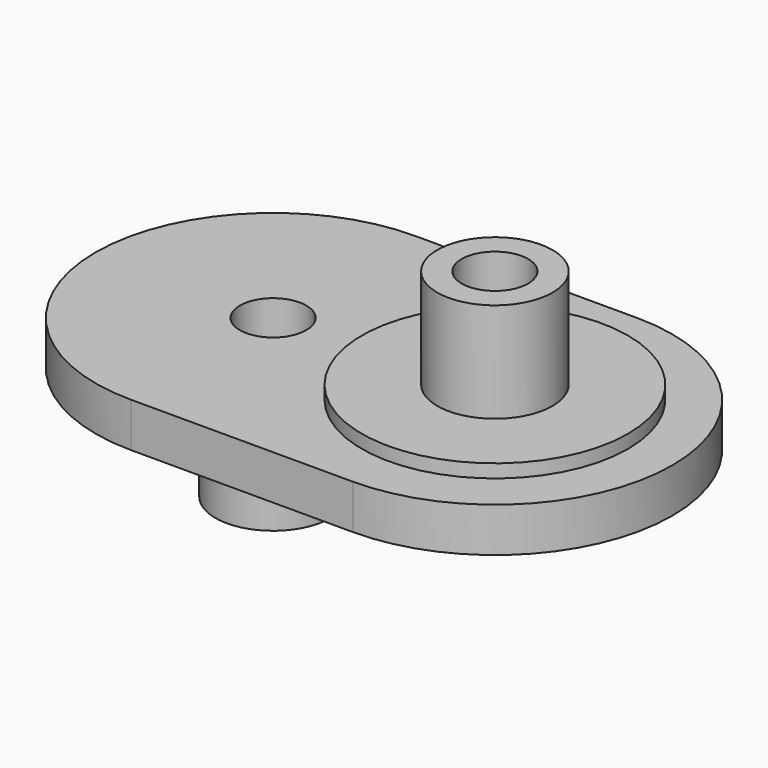
from build123d import *

# Parameters (mm, degrees)
CYLINDER009_R     = 1.5
CYLINDER009_DEPTH = 7.1
CYLINDER007_R     = 1.5
CYLINDER007_DEPTH = 7.1
CYLINDER006_R     = 6
CYLINDER006_DEPTH = 2.6
CYLINDER008_R     = 2.6
CYLINDER008_DEPTH = 7.1
CYLINDER010_R     = 2.6
CYLINDER010_DEPTH = 7.1
PAD_DEPTH         = 2
CYLINDER005_R     = 6
CYLINDER005_DEPTH = 2.6


with BuildPart() as cylinder009:
    # Cylinder009 → Cylinder009 (new body)
    with BuildSketch(Plane(origin=(-5, 0, -5.1), x_dir=(1, 0, 0), z_dir=(0, 0, 1))):
        Circle(CYLINDER009_R)
    extrude(amount=CYLINDER009_DEPTH)


with BuildPart() as idle_linkage_hole_fusion:
    # Cylinder007 → Cylinder007 (new body)
    with BuildSketch(Plane(origin=(5, 0, 0), x_dir=(1, 0, 0), z_dir=(0, 0, 1))):
        Circle(CYLINDER007_R)
    extrude(amount=CYLINDER007_DEPTH)

    # Fusion009: union Cylinder009
    add(cylinder009.part)


with BuildPart() as cylinder006:
    # Cylinder006 → Cylinder006 (new body)
    with BuildSketch(Plane(origin=(-5, 0, -0.6), x_dir=(1, 0, 0), z_dir=(0, 0, 1))):
        Circle(CYLINDER006_R)
    extrude(amount=CYLINDER006_DEPTH)


with BuildPart() as cylinder008:
    # Cylinder008 → Cylinder008 (new body)
    with BuildSketch(Plane(origin=(5, 0, 0), x_dir=(1, 0, 0), z_dir=(0, 0, 1))):
        Circle(CYLINDER008_R)
    extrude(amount=CYLINDER008_DEPTH)


with BuildPart() as cylinder010:
    # Cylinder010 → Cylinder010 (new body)
    with BuildSketch(Plane(origin=(-5, 0, -5.1), x_dir=(1, 0, 0), z_dir=(0, 0, 1))):
        Circle(CYLINDER010_R)
    extrude(amount=CYLINDER010_DEPTH)


with BuildPart() as idle_linkage_base_body:
    # Sketch008 → Pad (new body)
    with BuildSketch(Plane.XY):
        with BuildLine():
            Line((-5, 8), (5, 8))
            ThreePointArc((5, -8), (13, 0), (5, 8))
            Line((-5, -8), (5, -8))
            ThreePointArc((-5, 8), (-13, 0), (-5, -8))
        make_face()
    extrude(amount=PAD_DEPTH)


with BuildPart() as idle_fusion_cut:
    # Cylinder005 → Cylinder005 (new body)
    with BuildSketch(Plane(origin=(5, 0, 0), x_dir=(1, 0, 0), z_dir=(0, 0, 1))):
        Circle(CYLINDER005_R)
    extrude(amount=CYLINDER005_DEPTH)

    # Fusion008: union Cylinder006, Cylinder008, Cylinder010, idle linkage base body
    add(cylinder006.part)
    add(cylinder008.part)
    add(cylinder010.part)
    add(idle_linkage_base_body.part)

    # Cut001: cut idle linkage hole fusion
    add(idle_linkage_hole_fusion.part, mode=Mode.SUBTRACT)


solid = idle_fusion_cut.part
